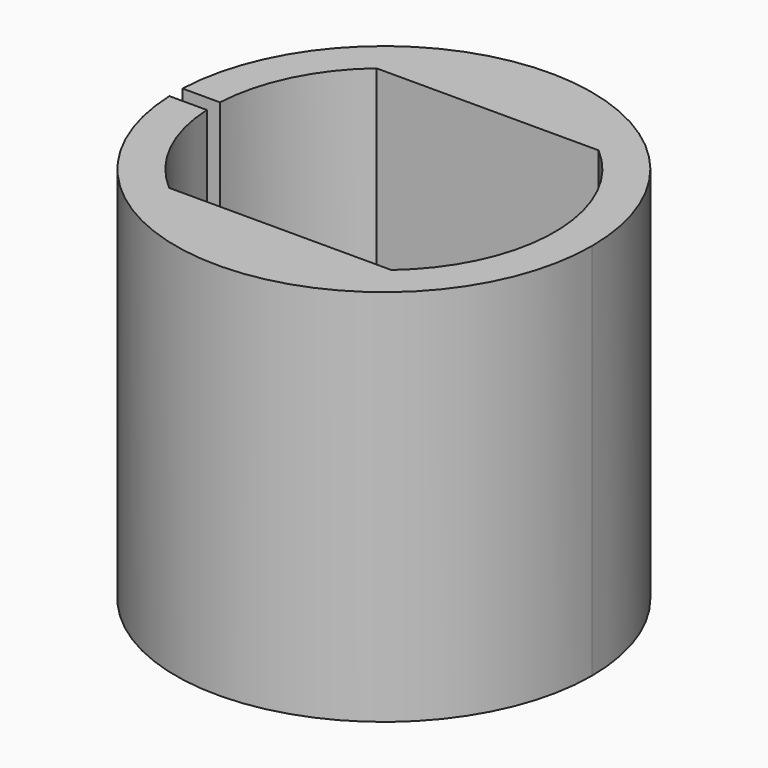
from build123d import *

# Parameters (mm, degrees)
F1_DEPTH = 23


with BuildPart() as f1:
    # F0 (on Top) → F1 (new body)
    with BuildSketch(Plane.XY):
        with BuildLine():
            ThreePointArc((-12.640115, -0.5), (0.250049, -12.647528), (12.65, 0))
            ThreePointArc((12.65, 0), (0.250049, 12.647528), (-12.640115, 0.5))
            Line((-12.640115, 0.5), (-10.362945, 0.5))
            ThreePointArc((-10.362945, 0.5), (-9.319361, 4.559621), (-6.754628, 7.875))
            Line((-6.754628, 7.875), (6.754628, 7.875))
            ThreePointArc((6.754628, 7.875), (10.375, 0), (6.754628, -7.875))
            Line((6.754628, -7.875), (-6.754628, -7.875))
            ThreePointArc((-6.754628, -7.875), (-9.319361, -4.559621), (-10.362945, -0.5))
            Line((-10.362945, -0.5), (-12.640115, -0.5))
        make_face()
    extrude(amount=F1_DEPTH)


solid = f1.part
